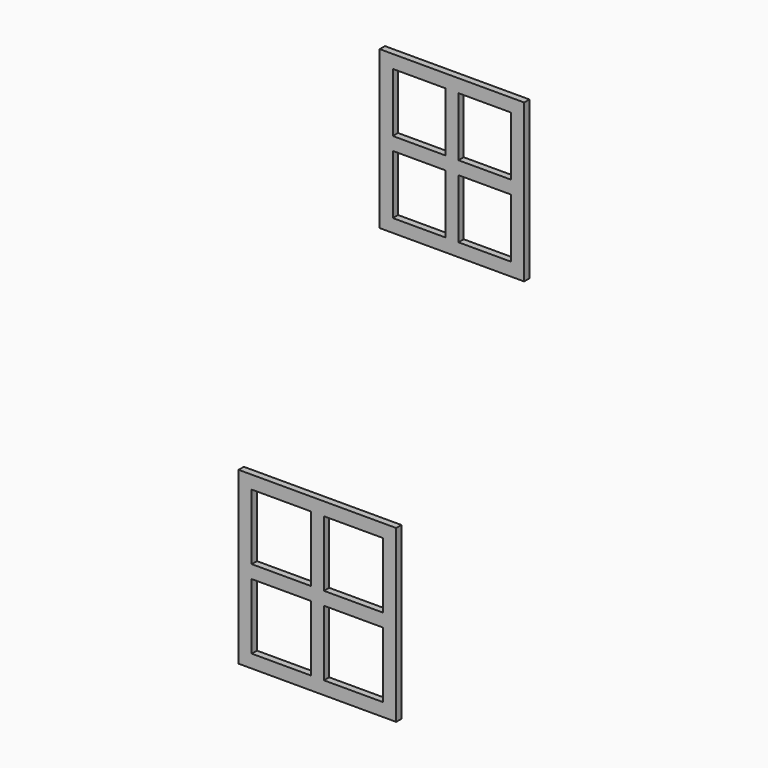
from build123d import *

# Parameters (mm, degrees)
F0_W     = 11
F0_H     = 12
F0_W_2   = 12
F0_H_2   = 13
F1_DEPTH = 0.5


with BuildPart() as f1:
    # F0 (on Front) → F1 (new body)
    with BuildSketch(Plane.XZ):
        with Locations((102.641743, 25.696947)):
            Rectangle(F0_W, F0_H)
        Polygon((103.141743, 30.696947), (107.141743, 30.696947), (107.141743, 26.196947), (107.141743, 25.196947), (107.141743, 20.696947), (103.141743, 20.696947), (102.141743, 20.696947), (98.141743, 20.696947), (98.141743, 25.196947), (98.141743, 26.196947), (98.141743, 30.696947), (102.141743, 30.696947), align=None, mode=Mode.SUBTRACT)
        Polygon((103.141743, 26.196947), (103.141743, 30.696947), (102.141743, 30.696947), (102.141743, 26.196947), (98.141743, 26.196947), (98.141743, 25.196947), (102.141743, 25.196947), (102.141743, 20.696947), (103.141743, 20.696947), (103.141743, 25.196947), (107.141743, 25.196947), (107.141743, 26.196947), align=None)
        with Locations((92.397953, -6.5)):
            Rectangle(F0_W_2, F0_H_2)
        Polygon((92.897953, -1), (97.397953, -1), (97.397953, -6), (97.397953, -7), (97.397953, -12), (92.897953, -12), (91.897953, -12), (87.397953, -12), (87.397953, -7), (87.397953, -6), (87.397953, -1), (91.897953, -1), align=None, mode=Mode.SUBTRACT)
        Polygon((92.897953, -6), (92.897953, -1), (91.897953, -1), (91.897953, -6), (87.397953, -6), (87.397953, -7), (91.897953, -7), (91.897953, -12), (92.897953, -12), (92.897953, -7), (97.397953, -7), (97.397953, -6), align=None)
    extrude(amount=F1_DEPTH)


solid = f1.part
